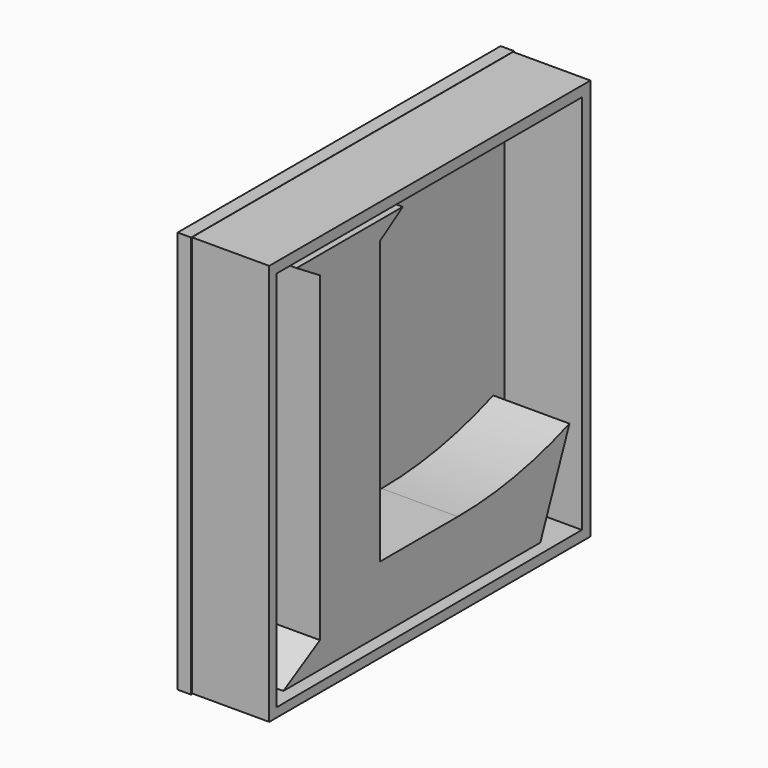
from build123d import *

# Parameters (mm, degrees)
F1_DEPTH = 12.05993
F3_DEPTH = 12.23708
F4_W     = 63.862873
F4_H     = 63.649995
F5_DEPTH = 2.13452


with BuildPart() as f1:
    # F0 (on Right) → F1 (new body)
    with BuildSketch(Plane.YZ):
        with BuildLine():
            Line((0, 4.133418), (-7.237988, 0))
            Line((-7.237988, 0), (43.562012, 0))
            Line((43.562012, 0), (49.326111, 14.232506))
            ThreePointArc((49.326111, 14.232506), (38.475508, 11.250652), (27.267575, 10.246024))
            Line((27.267575, 10.246024), (11.853177, 10.246024))
            Line((11.853177, 10.246024), (11.853177, 54.894626))
            Line((11.853177, 54.894626), (16.371191, 57.818048))
            Line((16.371191, 57.818048), (-4.624283, 57.818048))
            Line((-4.624283, 57.818048), (0, 54.933418))
            Line((0, 54.933418), (0, 4.133418))
        make_face()
    extrude(amount=F1_DEPTH)


with BuildPart() as f3:
    # F2 (on Right) → F3 (new body)
    with BuildSketch(Plane.YZ):
        Polygon((-8.845868, -1.585666), (-10.253409, -3.027244), (53.246591, -3.027244), (51.556941, -1.418806), align=None)
        Polygon((-10.253409, 60.472756), (-10.253409, -3.027244), (-8.845868, -1.585666), (-8.845868, 58.817144), align=None)
        Polygon((51.556941, -1.418806), (53.246591, -3.027244), (53.246591, 60.472756), (51.556941, 58.817144), align=None)
        Polygon((53.246591, 60.472756), (-10.253409, 60.472756), (-8.845868, 58.817144), (51.556941, 58.817144), align=None)
    extrude(amount=F3_DEPTH)


with BuildPart() as f5:
    # F4 (on Right) → F5 (new body)
    with BuildSketch(Plane.YZ):
        with Locations((21.525492, 28.678787)):
            Rectangle(F4_W, F4_H)
    extrude(amount=-F5_DEPTH)


solid = Compound([f1.part, f3.part, f5.part])
